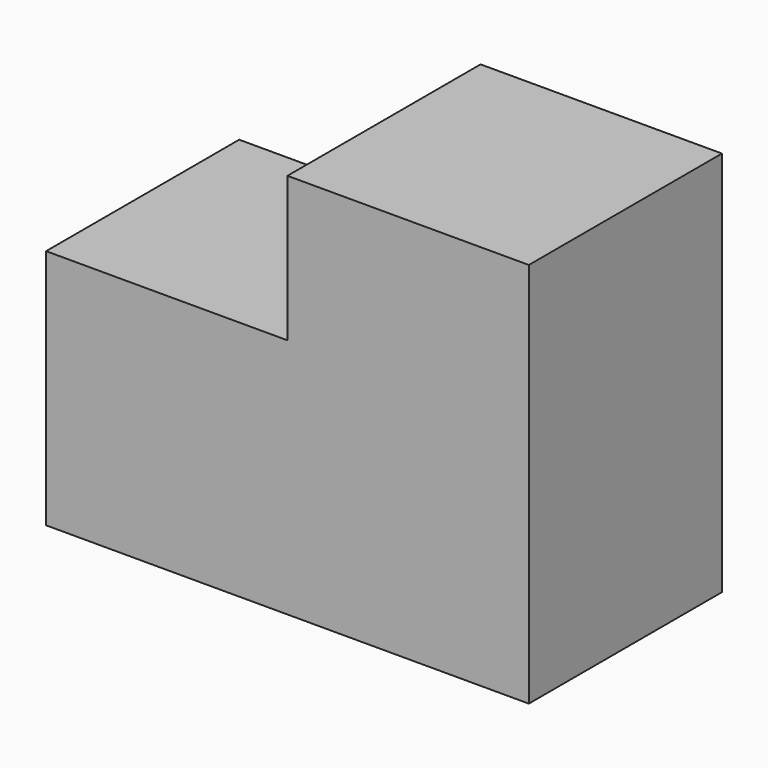
from build123d import *

# Parameters (mm, degrees)
BOX001_W     = 10
BOX001_H     = 10
BOX001_DEPTH = 16
BOX_W        = 10
BOX_H        = 10
BOX_DEPTH    = 10


with BuildPart() as cube001:
    # Box001 → Box001 (new body)
    with BuildSketch(Plane(origin=(10, 0, 0), x_dir=(1, 0, 0), z_dir=(0, 0, 1))):
        with Locations((5, 5)):
            Rectangle(BOX001_W, BOX001_H)
    extrude(amount=BOX001_DEPTH)


with BuildPart() as fusion:
    # Box → Box (new body)
    with BuildSketch(Plane.XY):
        with Locations((5, 5)):
            Rectangle(BOX_W, BOX_H)
    extrude(amount=BOX_DEPTH)

    # Fusion: union Cube001
    add(cube001.part)


solid = fusion.part
